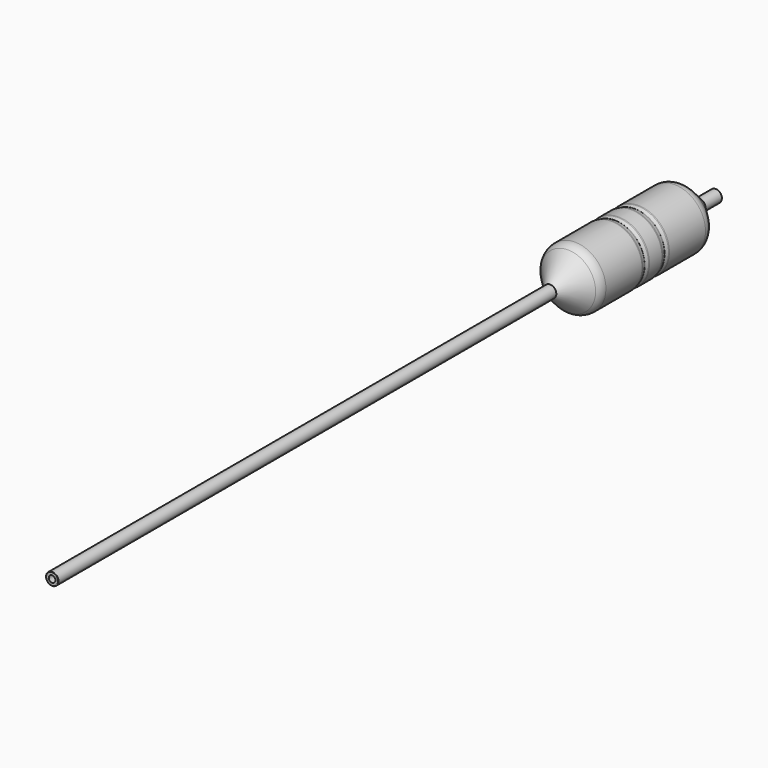
from build123d import *

# Parameters (mm, degrees)
F0_R     = 1.905
F0_R_2   = 1.016
F1_DEPTH = 254
F2_SIZE  = 0.5588
F3_R     = 0.127
F4_R     = 0.127
F8_R     = 1.27


with BuildPart() as f1:
    # F0 (on Front) → F1 (new body)
    with BuildSketch(Plane.XZ):
        Circle(F0_R)
        Circle(F0_R_2, mode=Mode.SUBTRACT)
    extrude(amount=F1_DEPTH)

    # F2
    f2_edges = [f1.edges().sort_by_distance(p)[0] for p in [
        (-1.016, 0, 0),
    ]]
    chamfer(f2_edges, length=F2_SIZE)

    # F3
    f3_edges = [f1.edges().sort_by_distance(p)[0] for p in [
        (-1.905, 0, 0),
    ]]
    fillet(f3_edges, radius=F3_R)

    # F4
    f4_edges = [f1.edges().sort_by_distance(p)[0] for p in [
        (-1.905, -254, 0),
    ]]
    fillet(f4_edges, radius=F4_R)


with BuildPart() as f7:
    # F6 (on Right) → F7 (revolve)
    with BuildSketch(Plane.YZ):
        with BuildLine():
            Line((-56.574863, 8.440962), (-63.4492, 1.905))
            Line((-63.4492, 1.905), (-62.711948, 1.905))
            Line((-62.711948, 1.905), (-56.371911, 7.932962))
            ThreePointArc((-56.371911, 7.932962), (-55.160158, 8.709877), (-53.746648, 8.981786))
            Line((-53.746648, 8.981786), (-40.045323, 8.981786))
            Line((-40.045323, 8.981786), (-38.838823, 8.664286))
            Line((-38.838823, 8.664286), (-38.580377, 8.664286))
            Line((-38.580377, 8.664286), (-37.373877, 8.981786))
            Line((-37.373877, 8.981786), (-34.8996, 8.981786))
            Line((-34.8996, 8.981786), (-32.425323, 8.981786))
            Line((-32.425323, 8.981786), (-31.218823, 8.664286))
            Line((-31.218823, 8.664286), (-30.960377, 8.664286))
            Line((-30.960377, 8.664286), (-29.753877, 8.981786))
            Line((-29.753877, 8.981786), (-16.052552, 8.981786))
            ThreePointArc((-16.052552, 8.981786), (-14.639042, 8.709877), (-13.427289, 7.932962))
            Line((-13.427289, 7.932962), (-7.087252, 1.905))
            Line((-7.087252, 1.905), (-6.35, 1.905))
            Line((-6.35, 1.905), (-13.224337, 8.440962))
            ThreePointArc((-13.224337, 8.440962), (-14.43609, 9.217877), (-15.8496, 9.489786))
            Line((-15.8496, 9.489786), (-29.8196, 9.489786))
            Line((-29.8196, 9.489786), (-31.0261, 9.172286))
            Line((-31.0261, 9.172286), (-31.1531, 9.172286))
            Line((-31.1531, 9.172286), (-32.3596, 9.489786))
            Line((-32.3596, 9.489786), (-34.8996, 9.489786))
            Line((-34.8996, 9.489786), (-37.4396, 9.489786))
            Line((-37.4396, 9.489786), (-38.6461, 9.172286))
            Line((-38.6461, 9.172286), (-38.7731, 9.172286))
            Line((-38.7731, 9.172286), (-39.9796, 9.489786))
            Line((-39.9796, 9.489786), (-53.9496, 9.489786))
            ThreePointArc((-53.9496, 9.489786), (-55.36311, 9.217877), (-56.574863, 8.440962))
        make_face()
    revolve(axis=Axis((0, -159.145489, 0), (0, -1, 0)))

    # F8
    f8_edges = [f7.edges().sort_by_distance(p)[0] for p in [
        (0, -39.9796, -9.489786),
        (0, -37.4396, -9.489786),
        (0, -32.3596, -9.489786),
        (0, -29.8196, -9.489786),
        (0, -29.753877, -8.981786),
        (0, -32.425323, -8.981786),
        (0, -37.373877, -8.981786),
        (0, -40.045323, -8.981786),
    ]]
    fillet(f8_edges, radius=F8_R)


solid = Compound([f1.part, f7.part])
